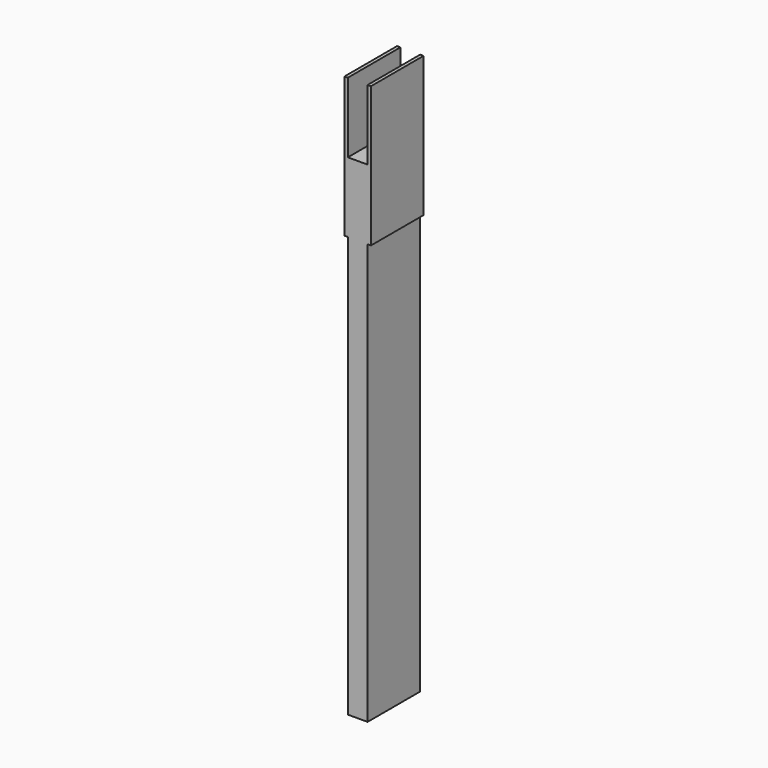
from build123d import *

# Parameters (mm, degrees)
F0_W     = 2.38125
F0_H     = 50.8
F0_H_2   = 8.466666
F1_DEPTH = 7.9375


with BuildPart() as f1:
    # F0 (on Front) → F1 (new body)
    with BuildSketch(Plane.XZ):
        Polygon((-45.73235, 26.471748), (-45.73235, 34.938414), (-45.73235, 43.407778), (-46.142086, 43.407778), (-46.142086, 26.471748), align=None)
        Polygon((-43.3511, 43.407778), (-43.3511, 34.938414), (-43.3511, 26.471748), (-42.941363, 26.471748), (-42.941363, 43.407778), align=None)
        with Locations((-44.541725, 1.071748)):
            Rectangle(F0_W, F0_H)
        with Locations((-44.541725, 30.705081)):
            Rectangle(F0_W, F0_H_2)
    extrude(amount=F1_DEPTH)


solid = f1.part
